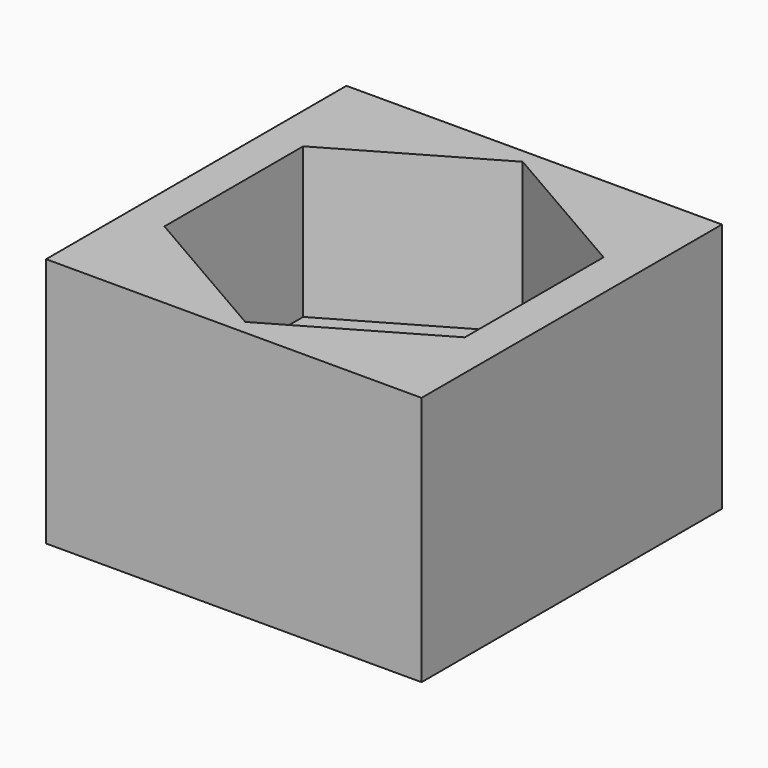
from build123d import *

# Parameters (mm, degrees)
F0_W     = 15
F0_H     = 15
F1_DEPTH = 10
F3_DEPTH = 6
F4_R     = 4
F5_DEPTH = 25


with BuildPart() as f1:
    # F0 (on Top) → F1 (new body)
    with BuildSketch(Plane.XY):
        Rectangle(F0_W, F0_H)
    extrude(amount=F1_DEPTH)

    # F2 (on face) → F3 (cut)
    with BuildSketch(Plane.XY.offset(10)):
        Polygon((0, -6.928203), (6, -3.464102), (6, 3.464102), (0, 6.928203), (-6, 3.464102), (-6, -3.464102), align=None)
    extrude(amount=-F3_DEPTH, mode=Mode.SUBTRACT)

    # F4 (on face) → F5 (cut)
    with BuildSketch(Plane.XY.offset(4)):
        Circle(F4_R)
    extrude(amount=-F5_DEPTH, mode=Mode.SUBTRACT)


solid = f1.part
